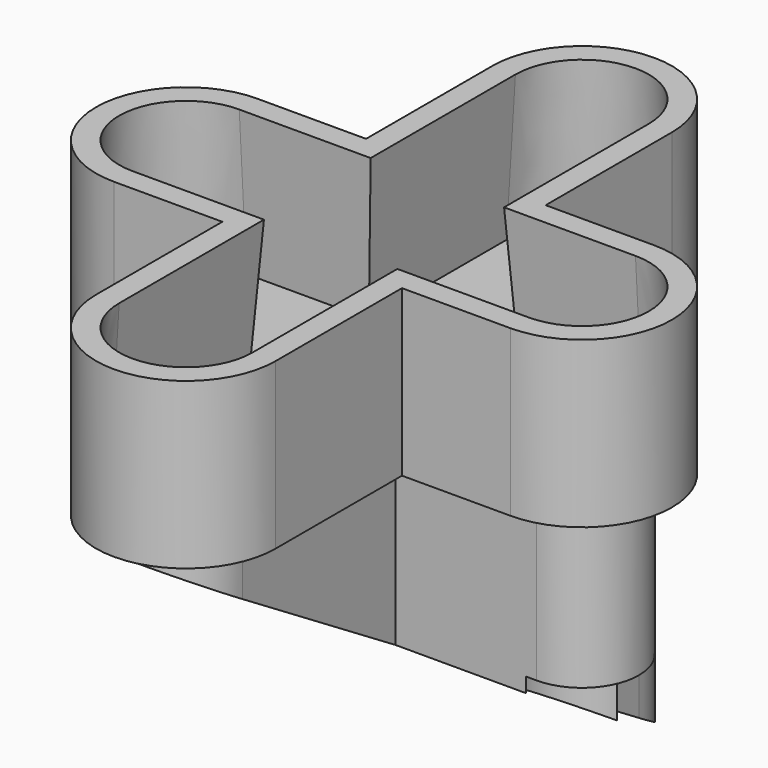
from build123d import *

# Parameters (mm, degrees)
F0_W          = 4.28
F0_H          = 3.44
F0_W_2        = 3.44
F0_H_2        = 5.78
F1_DEPTH      = 12
F3_DEPTH      = 25
F3_DEPTH_BACK = 25
F4_R          = 1.75
F5_DEPTH      = 7.2
F6_R          = 0.9
F7_DEPTH      = 55
F8_R          = 0.9
F10_DEPTH     = 5
F11_R         = 0.8
F12_DEPTH     = 17.001
F14_DEPTH     = 4.5
F14_TAPER     = -3.5


with BuildPart() as f1:
    # F0 (on Top) → F1 (new body)
    with BuildSketch(Plane.XY):
        with Locations((3.86, 0)):
            Rectangle(F0_W, F0_H)
        with BuildLine():
            Line((6, 1.72), (6, -1.72))
            ThreePointArc((6, -1.72), (7.72, 0), (6, 1.72))
        make_face()
        with Locations((0, -4.61)):
            Rectangle(F0_W_2, F0_H_2)
        Rectangle(F0_W_2, F0_H)
        with Locations((-3.86, 0)):
            Rectangle(F0_W, F0_H)
        with BuildLine():
            ThreePointArc((-1.72, -7.5), (0, -9.22), (1.72, -7.5))
            Line((1.72, -7.5), (-1.72, -7.5))
        make_face()
        with Locations((0, 4.61)):
            Rectangle(F0_W_2, F0_H_2)
        with BuildLine():
            ThreePointArc((-6, 1.72), (-7.72, 0), (-6, -1.72))
            Line((-6, -1.72), (-6, 1.72))
        make_face()
        with BuildLine():
            Line((-1.72, 7.5), (1.72, 7.5))
            ThreePointArc((1.72, 7.5), (0, 9.22), (-1.72, 7.5))
        make_face()
    extrude(amount=F1_DEPTH)

    # F2 (on Right) → F3 (cut, two sides)
    with BuildSketch(Plane.YZ) as f3_sk:
        Polygon((-7.5, 0), (7.5, 0), (7.5, 1.0621960754), (-7.5, 10.3255339419), align=None)
        Polygon((7.5, 1.0621960754), (7.5, 0), (9.22, 0), align=None)
        Polygon((-9.22, 0), (-7.5, 0), (-7.5, 10.3255339419), (-9.22, 11.3877300173), align=None)
    extrude(amount=-F3_DEPTH, mode=Mode.SUBTRACT)
    extrude(f3_sk.sketch, amount=F3_DEPTH_BACK, mode=Mode.SUBTRACT)

    # F4 (on Top) → F5 (cut)
    with BuildSketch(Plane.XY):
        with Locations((6, 0)):
            Circle(F4_R)
        with Locations((-6, 0)):
            Circle(F4_R)
    extrude(amount=F5_DEPTH, mode=Mode.SUBTRACT)

    # F6 (on Top) → F7 (cut)
    with BuildSketch(Plane.XY):
        Circle(F6_R)
    extrude(amount=F7_DEPTH, mode=Mode.SUBTRACT)

    # F8 (on face) + F9 (on face) → F10 (join)
    with BuildSketch(Plane.XY.offset(12)):
        with BuildLine():
            Line((1.72, -7.5), (1.72, -1.72))
            Line((1.72, -1.72), (6, -1.72))
            ThreePointArc((6, -1.72), (7.72, 0), (6, 1.72))
            Line((6, 1.72), (1.72, 1.72))
            Line((1.72, 1.72), (1.72, 7.5))
            ThreePointArc((1.72, 7.5), (0, 9.22), (-1.72, 7.5))
            Line((-1.72, 7.5), (-1.72, 1.72))
            Line((-1.72, 1.72), (-6, 1.72))
            ThreePointArc((-6, 1.72), (-7.72, 0), (-6, -1.72))
            Line((-6, -1.72), (-1.72, -1.72))
            Line((-1.72, -1.72), (-1.72, -7.5))
            ThreePointArc((-1.72, -7.5), (0, -9.22), (1.72, -7.5))
        make_face()
        Circle(F8_R, mode=Mode.SUBTRACT)
    with BuildSketch(Plane.XY.offset(12)):
        with BuildLine():
            ThreePointArc((-2.7199999895, -7.5), (0, -10.2199999895), (2.7199999895, -7.5))
            Line((2.7199999895, -7.5), (2.7199999895, -2.7199999895))
            Line((2.7199999895, -2.7199999895), (6, -2.7199999895))
            ThreePointArc((6, -2.7199999895), (8.7199999895, 0), (6, 2.7199999895))
            Line((6, 2.7199999895), (2.7199999895, 2.7199999895))
            Line((2.7199999895, 2.7199999895), (2.7199999895, 7.5))
            ThreePointArc((2.7199999895, 7.5), (0, 10.2199999895), (-2.7199999895, 7.5))
            Line((-2.7199999895, 7.5), (-2.7199999895, 2.7199999895))
            Line((-2.7199999895, 2.7199999895), (-6, 2.7199999895))
            ThreePointArc((-6, 2.7199999895), (-8.7199999895, 0), (-6, -2.7199999895))
            Line((-6, -2.7199999895), (-2.7199999895, -2.7199999895))
            Line((-2.7199999895, -2.7199999895), (-2.7199999895, -7.5))
        make_face()
    extrude(amount=F10_DEPTH)

    # F11 (on face) → F12 (cut, through all)
    with BuildSketch(Plane.XY.offset(17)):
        with Locations((0, -7.5)):
            Circle(F11_R)
    extrude(amount=-F12_DEPTH, mode=Mode.SUBTRACT)

    # F13 (on face) → F14 (cut)
    with BuildSketch(Plane.XY.offset(17)):
        with BuildLine():
            Line((2.02, -2.02), (6, -2.02))
            ThreePointArc((6, -2.02), (8.02, 0), (6, 2.02))
            Line((6, 2.02), (2.02, 2.02))
            Line((2.02, 2.02), (2.02, 7.5))
            ThreePointArc((2.02, 7.5), (0, 9.52), (-2.02, 7.5))
            Line((-2.02, 7.5), (-2.02, 2.02))
            Line((-2.02, 2.02), (-6, 2.02))
            ThreePointArc((-6, 2.02), (-8.02, 0), (-6, -2.02))
            Line((-6, -2.02), (-2.02, -2.02))
            Line((-2.02, -2.02), (-2.02, -7.5))
            ThreePointArc((-2.02, -7.5), (0, -9.52), (2.02, -7.5))
            Line((2.02, -7.5), (2.02, -2.02))
        make_face()
    extrude(amount=-F14_DEPTH, taper=F14_TAPER, mode=Mode.SUBTRACT)


solid = f1.part
